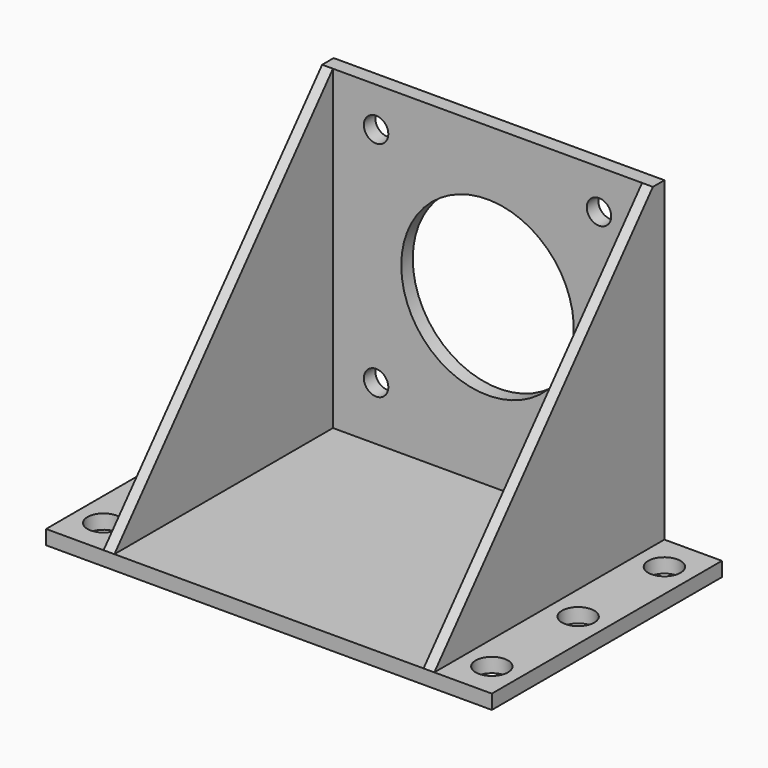
from build123d import *

# Parameters (mm, degrees)
F0_W     = 62
F0_H     = 40
F0_R     = 2.25
F1_DEPTH = 2
F3_W     = 46
F3_H     = 44
F3_R     = 1.7
F3_R_2   = 12
F4_DEPTH = 2
F6_DEPTH = 1.5


with BuildPart() as f1:
    # F0 (on Top) → F1 (new body)
    with BuildSketch(Plane.XY):
        Rectangle(F0_W, F0_H)
        with Locations((-27, -15)):
            Circle(F0_R, mode=Mode.SUBTRACT)
        with Locations((27, -15)):
            Circle(F0_R, mode=Mode.SUBTRACT)
        with Locations((-27, 0)):
            Circle(F0_R, mode=Mode.SUBTRACT)
        with Locations((-27, 15)):
            Circle(F0_R, mode=Mode.SUBTRACT)
        with Locations((27, 0)):
            Circle(F0_R, mode=Mode.SUBTRACT)
        with Locations((27, 15)):
            Circle(F0_R, mode=Mode.SUBTRACT)
    extrude(amount=F1_DEPTH)

    # F3 (on offset) → F4 (join)
    with BuildSketch(Plane(origin=(0, 20, 0), x_dir=(-1, 0, 0), z_dir=(0, 1, 0))):
        with Locations((0, 24)):
            Rectangle(F3_W, F3_H)
        with Locations((-15.5, 9.5)):
            Circle(F3_R, mode=Mode.SUBTRACT)
        with Locations((15.5, 9.5)):
            Circle(F3_R, mode=Mode.SUBTRACT)
        with Locations((-15.5, 40.5)):
            Circle(F3_R, mode=Mode.SUBTRACT)
        with Locations((0, 25)):
            Circle(F3_R_2, mode=Mode.SUBTRACT)
        with Locations((15.5, 40.5)):
            Circle(F3_R, mode=Mode.SUBTRACT)
    extrude(amount=-F4_DEPTH)

    # F5 (on face) → F6 (join)
    with BuildSketch(Plane.YZ.offset(23)):
        Polygon((18, 2), (18, 46), (-20, 2), align=None)
    extrude(amount=-F6_DEPTH)

    # F7: F1 across plane


with BuildPart() as f1_1:
    add(f1.part)
    add(f1.part.mirror(Plane.YZ))


solid = f1_1.part
